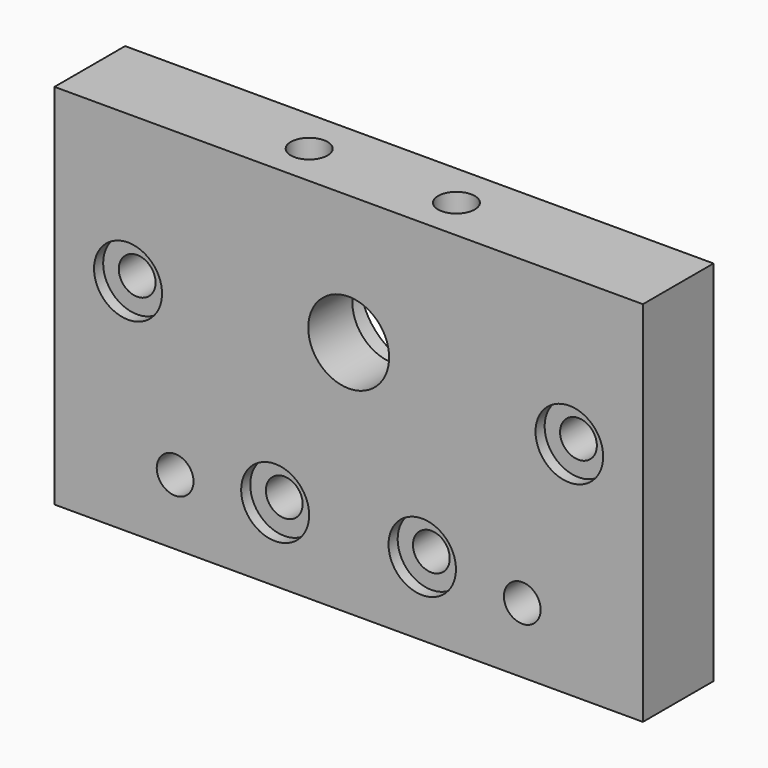
from build123d import *

# Parameters (mm, degrees)
SKETCH019_W     = 80
SKETCH019_H     = 50
SKETCH019_R     = 2.5
SKETCH019_R_2   = 5.5
PAD004_DEPTH    = 12
SKETCH020_R     = 2.5
POCKET012_DEPTH = 11
SKETCH021_R     = 8.05
POCKET013_DEPTH = 4.5
SKETCH022_R     = 4.6
SKETCH022_R_2   = 4.624594
SKETCH022_R_3   = 4.583454
SKETCH022_R_4   = 4.624604
POCKET014_DEPTH = 1.55


with BuildPart() as part:
    # Sketch019 → Pad004 (new body)
    with BuildSketch(Plane(origin=(258, 61, 0), x_dir=(-1, 0, 0), z_dir=(0, 1, 0))):
        with Locations((40, 25)):
            Rectangle(SKETCH019_W, SKETCH019_H)
        with Locations((10, 30)):
            Circle(SKETCH019_R, mode=Mode.SUBTRACT)
        with Locations((30, 10)):
            Circle(SKETCH019_R, mode=Mode.SUBTRACT)
        with Locations((16.4, 8.9)):
            Circle(SKETCH019_R, mode=Mode.SUBTRACT)
        with Locations((50, 10)):
            Circle(SKETCH019_R, mode=Mode.SUBTRACT)
        with Locations((63.6, 8.9)):
            Circle(SKETCH019_R, mode=Mode.SUBTRACT)
        with Locations((70, 30)):
            Circle(SKETCH019_R, mode=Mode.SUBTRACT)
        with Locations((40, 32.4)):
            Circle(SKETCH019_R_2, mode=Mode.SUBTRACT)
    extrude(amount=PAD004_DEPTH)

    # Sketch020 → Pocket012 (cut)
    with BuildSketch(Plane(origin=(258, 61, 50), x_dir=(1, 0, 0), z_dir=(0, 0, 1))):
        with Locations((-30.033846, 5.850095)):
            Circle(SKETCH020_R)
        with Locations((-50.003807, 5.788844)):
            Circle(SKETCH020_R)
    extrude(amount=-POCKET012_DEPTH, mode=Mode.SUBTRACT)

    # Sketch021 → Pocket013 (cut)
    with BuildSketch(Plane(origin=(258, 73, 0), x_dir=(-1, 0, 0), z_dir=(0, 1, 0))):
        with Locations((40, 32.4)):
            Circle(SKETCH021_R)
    extrude(amount=-POCKET013_DEPTH, mode=Mode.SUBTRACT)

    # Sketch022 → Pocket014 (cut)
    with BuildSketch(Plane(origin=(258, 61, 0), x_dir=(-1, 0, 0), z_dir=(0, -1, 0))):
        with Locations((10, -30)):
            Circle(SKETCH022_R)
        with Locations((70, -30)):
            Circle(SKETCH022_R_2)
        with Locations((30, -10)):
            Circle(SKETCH022_R_3)
        with Locations((50, -10)):
            Circle(SKETCH022_R_4)
    extrude(amount=-POCKET014_DEPTH, mode=Mode.SUBTRACT)


solid = part.part
